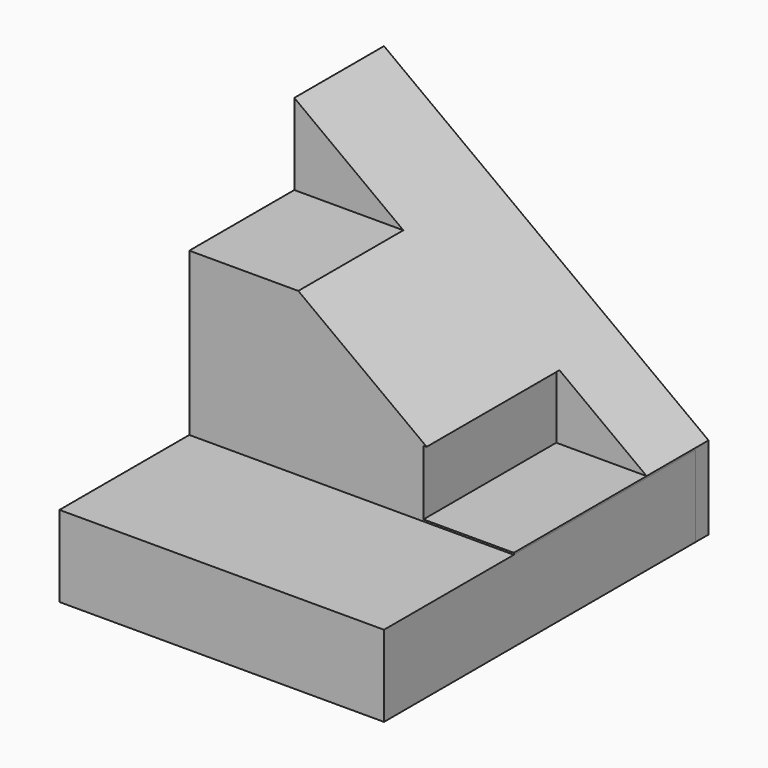
from build123d import *

# Parameters (mm, degrees)
F1_W     = 12.7
F1_H     = 6.35
F2_DEPTH = 25.4
F4_DEPTH = 31.75
F5_W     = 25.4
F5_H     = 12.6501958672
F5_H_2   = 9.9607838403
F5_H_3   = 7.8690202925
F6_DEPTH = 6.35
F8_START = 18.32693
F7_W     = 13.6079691021
F7_H     = 5.08
F8_DEPTH = 7.07307


with BuildPart() as f2:
    # F1 (on Right) → F2 (new body)
    with BuildSketch(Plane.YZ):
        Polygon((0, 6.35), (0, 0), (31.75, 0), (31.75, 6.35), (25.4, 6.35), (12.7, 6.35), align=None)
        Polygon((25.4, 6.35), (31.75, 6.35), (31.75, 25.4), (22.9751792536, 25.4), (22.9751792536, 19.05), (12.7, 19.05), (12.7, 12.7), (25.4, 12.7), align=None)
        with Locations((19.05, 9.525)):
            Rectangle(F1_W, F1_H)
    extrude(amount=F2_DEPTH)

    # F3 (on Front) → F4 (cut)
    with BuildSketch(Plane.XZ):
        Polygon((25.4, 25.4), (0, 25.4), (25.4, 6.4947228604), align=None)
    extrude(amount=-F4_DEPTH, mode=Mode.SUBTRACT)

    # F7 (on Right) → F8 (cut)
    with BuildSketch(Plane.YZ.offset(F8_START)):
        with Locations((18.8903899699, 9.0326967025)):
            Rectangle(F7_W, F7_H)
    extrude(amount=F8_DEPTH, mode=Mode.SUBTRACT)


with BuildPart() as f6:
    # F5 (on Top) → F6 (new body)
    with BuildSketch(Plane.XY):
        with Locations((12.7, 6.3250979336)):
            Rectangle(F5_W, F5_H)
        with Locations((12.7, 17.6305877873)):
            Rectangle(F5_W, F5_H_2)
        with Locations((12.7, 26.5454898537)):
            Rectangle(F5_W, F5_H_3)
    extrude(amount=F6_DEPTH)


solid = Compound([f2.part, f6.part])
